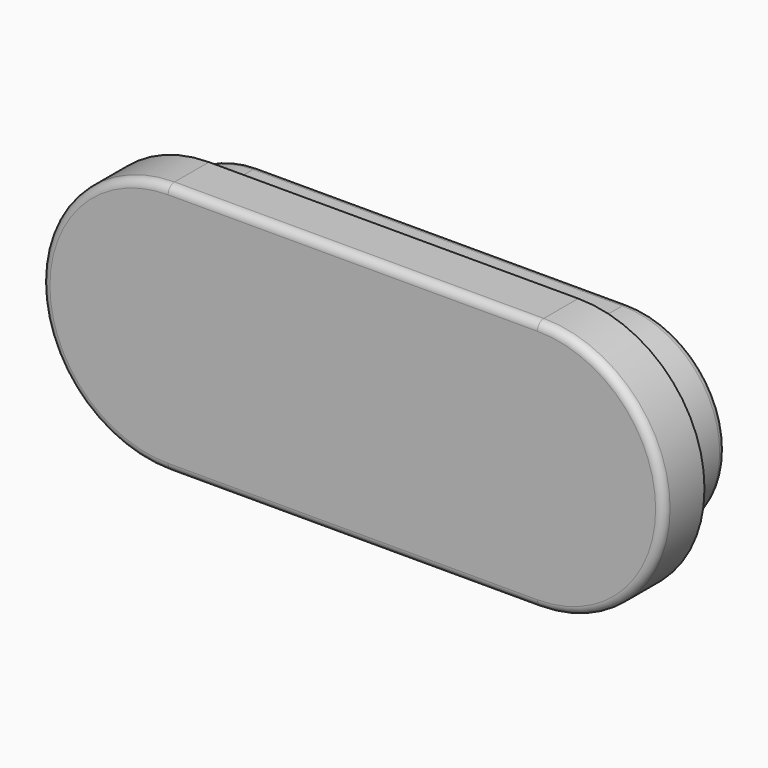
from build123d import *

# Parameters (mm, degrees)
F1_DEPTH = 11.938
F3_DEPTH = 9.652
F4_R     = 1.524


with BuildPart() as f1:
    # F0 (on Front) → F1 (new body)
    with BuildSketch(Plane.XZ):
        with BuildLine():
            Line((32.421591, 18.415), (-37.428409, 18.415))
            ThreePointArc((-37.428409, 18.415), (-55.843409, 0), (-37.428409, -18.415))
            Line((-37.428409, -18.415), (32.421591, -18.415))
            ThreePointArc((32.421591, -18.415), (50.836591, 0), (32.421591, 18.415))
        make_face()
    extrude(amount=F1_DEPTH)

    # F2 (on face) → F3 (join)
    with BuildSketch(Plane.XZ.offset(11.938)):
        with BuildLine():
            Line((32.421591, 23.876), (-37.428409, 23.876))
            ThreePointArc((-37.428409, 23.876), (-61.304409, 0), (-37.428409, -23.876))
            Line((-37.428409, -23.876), (32.421591, -23.876))
            ThreePointArc((32.421591, -23.876), (56.297591, 0), (32.421591, 23.876))
        make_face()
    extrude(amount=F3_DEPTH)

    # F4
    f4_edges = [f1.edges().sort_by_distance(p)[0] for p in [
        (-2.503409, -21.59, 23.876),
        (-61.304409, -21.59, 0),
        (-2.503409, -21.59, -23.876),
        (56.297591, -21.59, 0),
        (-2.503409, 0, 18.415),
        (-55.843409, 0, 0),
        (-2.503409, 0, -18.415),
        (50.836591, 0, 0),
    ]]
    fillet(f4_edges, radius=F4_R)


solid = f1.part
